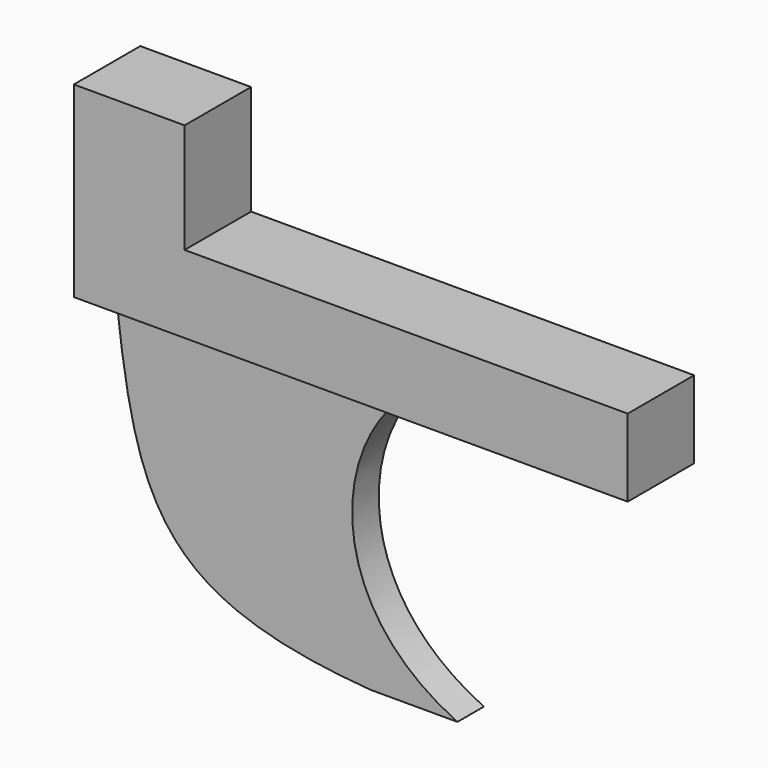
from build123d import *

# Parameters (mm, degrees)
F0_W     = 50
F0_H     = 7.5
F1_DEPTH = 7
F2_W     = 38
F2_H     = 3
F3_DEPTH = 24
F5_DEPTH = 25
F6_R     = 2
F7_DEPTH = 3
F8_W     = 10
F8_H     = 7.5
F9_DEPTH = 9.9


with BuildPart() as f1:
    # F0 (on Top) → F1 (new body)
    with BuildSketch(Plane.XY):
        Rectangle(F0_W, F0_H)
    extrude(amount=F1_DEPTH)

    # F2 (on face) → F3 (join)
    with BuildSketch(Plane(origin=(0, 0, 0), x_dir=(1, 0, 0), z_dir=(0, 0, -1))):
        with Locations((-4, 0)):
            Rectangle(F2_W, F2_H)
    extrude(amount=F3_DEPTH)

    # F4 (on face) → F5 (cut)
    with BuildSketch(Plane.XZ.offset(1.5)):
        with BuildLine():
            add(Edge.make_bspline(
                [(-23, 0), (-21.1907899678, -16.0032901913), (-19.0204773098, -22.5683785975), (0, -24)],
                knots=[0, 0, 0, 0, 33.2415402772, 33.2415402772, 33.2415402772, 33.2415402772], degree=3))
            Line((-23, 0), (-23, -24))
            Line((-23, -24), (0, -24))
        make_face()
        with BuildLine():
            Line((15, 0), (2.7631570119, 0))
            add(Edge.make_bspline(
                [(7.8289462253, -24), (-4.1600125842, -18.4321980923), (-3.5605092999, -5.8886152692), (2.7631570119, 0)],
                knots=[0, 0, 0, 0, 24.5288038916, 24.5288038916, 24.5288038916, 24.5288038916], degree=3))
            Line((7.8289462253, -24), (15, -24))
            Line((15, -24), (15, 0))
        make_face()
    extrude(amount=-F5_DEPTH, mode=Mode.SUBTRACT)

    # F6 (on face) → F7 (cut)
    with BuildSketch(Plane(origin=(-25, 0, 0), x_dir=(0, -1, 0), z_dir=(-1, 0, 0))):
        with Locations((0, 3.5)):
            Circle(F6_R)
    extrude(amount=-F7_DEPTH, mode=Mode.SUBTRACT)

    # F8 (on face) → F9 (join)
    with BuildSketch(Plane.XY.offset(7)):
        with Locations((-20, 0)):
            Rectangle(F8_W, F8_H)
    extrude(amount=F9_DEPTH)


solid = f1.part
